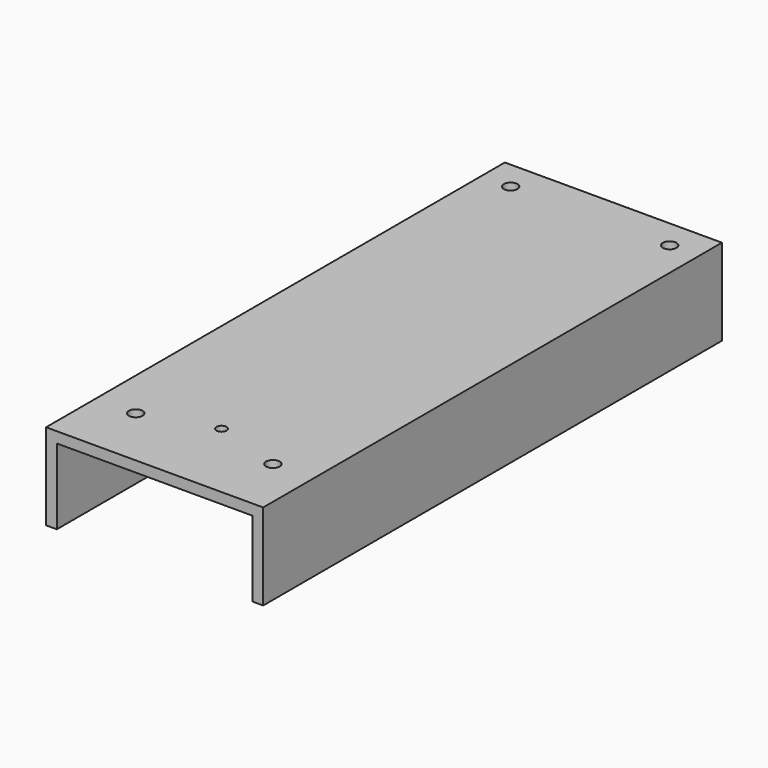
from build123d import *

# Parameters (mm, degrees)
F1_DEPTH = 168
F2_R     = 2
F2_R_2   = 1.5
F3_DEPTH = 3.15


with BuildPart() as f1:
    # F0 (on Front) → F1 (new body)
    with BuildSketch(Plane.XZ):
        Polygon((-38.461731, -0.734085), (-38.461731, -26.034085), (-35.311731, -26.034085), (-35.311731, -3.884085), (21.988269, -3.884085), (21.988269, -26.034085), (25.138269, -26.034085), (25.138269, -0.734085), align=None)
    extrude(amount=-F1_DEPTH)

    # F2 (on face) → F3 (cut)
    with BuildSketch(Plane.XY.offset(-0.734085)):
        with Locations((-29.961731, 159.5)):
            Circle(F2_R)
        with Locations((16.638269, 159.5)):
            Circle(F2_R)
        with Locations((-6.661731, 24.5)):
            Circle(F2_R_2)
        with Locations((13.438269, 18.2)):
            Circle(F2_R)
        with Locations((-26.761731, 18.2)):
            Circle(F2_R)
    extrude(amount=-F3_DEPTH, mode=Mode.SUBTRACT)


solid = f1.part
